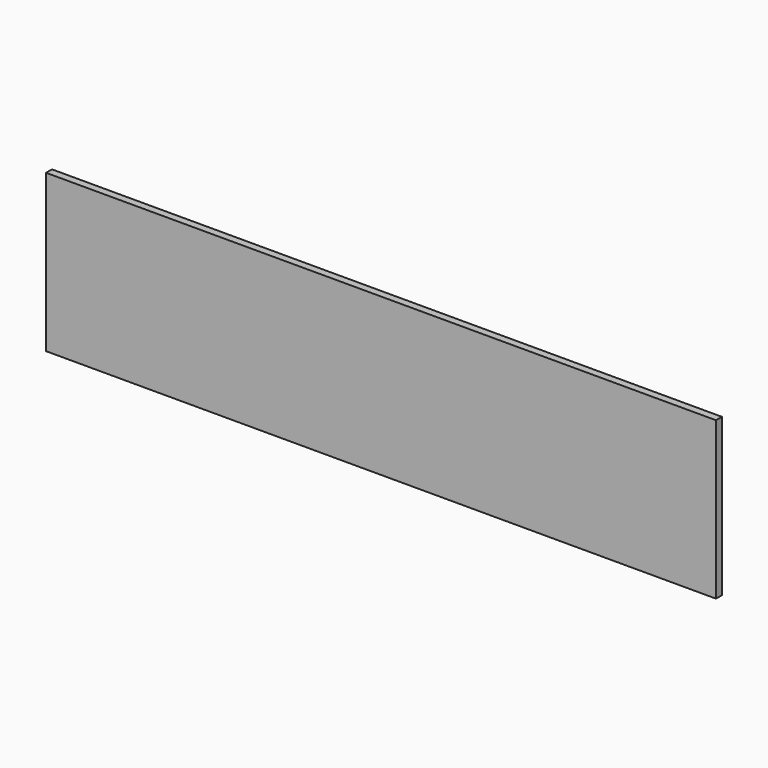
from build123d import *

# Parameters (mm, degrees)
F0_W           = 50.8
F0_H           = 20.442858261
F1_DEPTH       = 1.4224
F2_W           = 59.6624054015
F2_H           = 15.4937258922
F2_W_2         = 57.630572468
F2_H_2         = 13.3588104509
F3_DEPTH       = 25.4
F6_W           = 36.6247072816
F6_H           = 14.4294630736
F7_DEPTH       = 3.81
F8_DEPTH       = 10.414
F9_W           = 36.6247072816
F9_H           = 14.224
F10_DEPTH      = 5.08
F10_DEPTH_BACK = 25.4
F11_DEPTH      = 6.096
F12_DEPTH      = 3.81
F13_DEPTH      = 9.144
F14_DEPTH      = 8.382
F15_DEPTH      = 4.318
F16_DEPTH      = 5.08
F17_DEPTH      = 2.032
F18_DEPTH      = 5.334
F19_DEPTH      = 3.302
F20_DEPTH      = 1.0414
F21_DEPTH      = 1.0922


with BuildPart() as f1:
    # F0 (on Front) → F1 (new body)
    with BuildSketch(Plane.XZ):
        with Locations((-71.1733810604, 46.5210825205)):
            Rectangle(F0_W, F0_H)
    extrude(amount=F1_DEPTH)


with BuildPart() as f3:
    # F2 (on Front) → F3 (new body)
    with BuildSketch(Plane.XZ):
        with Locations((-81.8801727146, 13.2793516386)):
            Rectangle(F2_W, F2_H)
        with Locations((-81.9890405983, 13.377974974)):
            Rectangle(F2_W_2, F2_H_2, mode=Mode.SUBTRACT)
    extrude(amount=F3_DEPTH)


with BuildPart() as f7:
    # F6 (on Front) → F7 (new body)
    with BuildSketch(Plane.XZ):
        with Locations((-48.9577911794, 35.5990426615)):
            Rectangle(F6_W, F6_H)
    extrude(amount=F7_DEPTH)

    # F8 (add): a face of the model
    f8_faces = [f7.faces().sort_by_distance(p)[0] for p in [
        (-48.9577911794, -3.81, 35.5990426615),
    ]]
    extrude(f8_faces, amount=F8_DEPTH)

    # F9 (on face) → F10 (cut, two sides)
    with BuildSketch(Plane.XY.offset(42.8137741983)) as f10_sk:
        with Locations((-48.9577911794, -7.112)):
            Rectangle(F9_W, F9_H)
    extrude(amount=-F10_DEPTH, mode=Mode.SUBTRACT)
    extrude(f10_sk.sketch, amount=F10_DEPTH_BACK, mode=Mode.SUBTRACT)

    # F11 (cut): a face of the model
    f11_faces = [f7.faces().sort_by_distance(p)[0] for p in [
        (-48.9577911794, -14.224, 33.0590426615),
    ]]
    extrude(f11_faces, amount=-F11_DEPTH, mode=Mode.SUBTRACT)

    # F12 (cut): a face of the model
    f12_faces = [f7.faces().sort_by_distance(p)[0] for p in [
        (-48.9577911794, -4.064, 37.7337741983),
    ]]
    extrude(f12_faces, amount=-F12_DEPTH, mode=Mode.SUBTRACT)

    # F13 (add): a face of the model
    f13_faces = [f7.faces().sort_by_distance(p)[0] for p in [
        (-48.9577911794, 0, 31.1540426615),
    ]]
    extrude(f13_faces, amount=F13_DEPTH)

    # F14 (add): a face of the model
    f14_faces = [f7.faces().sort_by_distance(p)[0] for p in [
        (-48.9577911794, 0.508, 33.9237741983),
    ]]
    extrude(f14_faces, amount=F14_DEPTH)

    # F15 (cut): a face of the model
    f15_faces = [f7.faces().sort_by_distance(p)[0] for p in [
        (-48.9577911794, 9.144, 35.3450426615),
    ]]
    extrude(f15_faces, amount=-F15_DEPTH, mode=Mode.SUBTRACT)

    # F16 (cut): a face of the model
    f16_faces = [f7.faces().sort_by_distance(p)[0] for p in [
        (-48.9577911794, 4.826, 35.3450426615),
    ]]
    extrude(f16_faces, amount=-F16_DEPTH, mode=Mode.SUBTRACT)

    # F17 (cut): a face of the model
    f17_faces = [f7.faces().sort_by_distance(p)[0] for p in [
        (-48.9577911794, -0.254, 35.3450426615),
    ]]
    extrude(f17_faces, amount=-F17_DEPTH, mode=Mode.SUBTRACT)

    # F18 (cut): a face of the model
    f18_faces = [f7.faces().sort_by_distance(p)[0] for p in [
        (-48.9577911794, -5.207, 42.3057741983),
    ]]
    extrude(f18_faces, amount=-F18_DEPTH, mode=Mode.SUBTRACT)

    # F19 (cut): a face of the model
    f19_faces = [f7.faces().sort_by_distance(p)[0] for p in [
        (-48.9577911794, -2.286, 32.6780426615),
    ]]
    extrude(f19_faces, amount=-F19_DEPTH, mode=Mode.SUBTRACT)

    # F20 (cut): a face of the model
    f20_faces = [f7.faces().sort_by_distance(p)[0] for p in [
        (-48.9577911794, -8.128, 32.6780426615),
    ]]
    extrude(f20_faces, amount=-F20_DEPTH, mode=Mode.SUBTRACT)

    # F21 (cut): a face of the model
    f21_faces = [f7.faces().sort_by_distance(p)[0] for p in [
        (-48.9577911794, -7.0866, 32.6780426615),
    ]]
    extrude(f21_faces, amount=-F21_DEPTH, mode=Mode.SUBTRACT)


solid = f7.part
